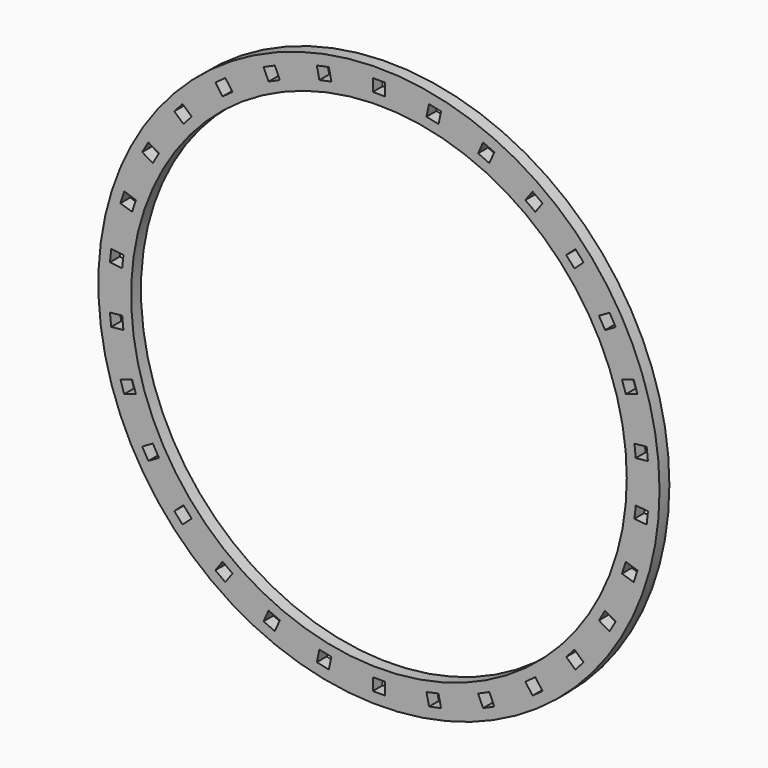
from build123d import *

# Parameters (mm, degrees)
F0_R     = 68.5
F0_R_2   = 60.5
F1_DEPTH = 3
F2_W     = 3
F2_H     = 3
F3_DEPTH = 3


with BuildPart() as f1:
    # F0 (on Front) → F1 (new body)
    with BuildSketch(Plane.XZ):
        Circle(F0_R)
        Circle(F0_R_2, mode=Mode.SUBTRACT)
    extrude(amount=F1_DEPTH)

    # F2 (on Front) → F3 (cut)
    with BuildSketch(Plane.XZ):
        with Locations((0, 64.375)):
            Rectangle(F2_W, F2_H)
        Polygon((-12.228961, 64.747341), (-15.163404, 64.123606), (-14.539669, 61.189163), (-11.605226, 61.812898), align=None)
        Polygon((-25.423458, 60.789912), (-28.164095, 59.569702), (-26.943885, 56.829066), (-24.203248, 58.049276), align=None)
        Polygon((-35.743472, 51.748621), (-37.506828, 54.175672), (-39.933879, 52.412317), (-38.170523, 49.985266), align=None)
        Polygon((-45.721535, 43.186304), (-47.950969, 45.193696), (-49.958361, 42.964261), (-47.728927, 40.95687), align=None)
        Polygon((-53.701347, 32.736538), (-56.299423, 34.236538), (-57.799423, 31.638462), (-55.201347, 30.138462), align=None)
        Polygon((-59.334153, 20.856028), (-62.187323, 21.783079), (-63.114374, 18.92991), (-60.261204, 18.002859), align=None)
        Polygon((-62.373771, 8.06401), (-65.357337, 8.377595), (-65.670923, 5.39403), (-62.687357, 5.080444), align=None)
        Polygon((-62.687357, -5.080444), (-65.670923, -5.39403), (-65.357337, -8.377595), (-62.373771, -8.06401), align=None)
        Polygon((-60.261204, -18.002859), (-63.114374, -18.92991), (-62.187323, -21.783079), (-59.334153, -20.856028), align=None)
        Polygon((-55.201347, -30.138462), (-57.799423, -31.638462), (-56.299423, -34.236538), (-53.701347, -32.736538), align=None)
        Polygon((-47.728927, -40.95687), (-49.958361, -42.964261), (-47.950969, -45.193696), (-45.721535, -43.186304), align=None)
        Polygon((-38.170523, -49.985266), (-39.933879, -52.412317), (-37.506828, -54.175672), (-35.743472, -51.748621), align=None)
        Polygon((-26.943885, -56.829066), (-28.164095, -59.569702), (-25.423458, -60.789912), (-24.203248, -58.049276), align=None)
        Polygon((-14.539669, -61.189163), (-15.163404, -64.123606), (-12.228961, -64.747341), (-11.605226, -61.812898), align=None)
        with Locations((0, -64.375)):
            Rectangle(F2_W, F2_H)
        Polygon((11.605226, -61.812898), (12.228961, -64.747341), (15.163404, -64.123606), (14.539669, -61.189163), align=None)
        Polygon((24.203248, -58.049276), (25.423458, -60.789912), (28.164095, -59.569702), (26.943885, -56.829066), align=None)
        Polygon((35.743472, -51.748621), (37.506828, -54.175672), (39.933879, -52.412317), (38.170523, -49.985266), align=None)
        Polygon((45.721535, -43.186304), (47.950969, -45.193696), (49.958361, -42.964261), (47.728927, -40.95687), align=None)
        Polygon((53.701347, -32.736538), (56.299423, -34.236538), (57.799423, -31.638462), (55.201347, -30.138462), align=None)
        Polygon((59.334153, -20.856028), (62.187323, -21.783079), (63.114374, -18.92991), (60.261204, -18.002859), align=None)
        Polygon((62.373771, -8.06401), (65.357337, -8.377595), (65.670923, -5.39403), (62.687357, -5.080444), align=None)
        Polygon((62.687357, 5.080444), (65.670923, 5.39403), (65.357337, 8.377595), (62.373771, 8.06401), align=None)
        Polygon((60.261204, 18.002859), (63.114374, 18.92991), (62.187323, 21.783079), (59.334153, 20.856028), align=None)
        Polygon((55.201347, 30.138462), (57.799423, 31.638462), (56.299423, 34.236538), (53.701347, 32.736538), align=None)
        Polygon((47.728927, 40.95687), (49.958361, 42.964261), (47.950969, 45.193696), (45.721535, 43.186304), align=None)
        Polygon((38.170523, 49.985266), (39.933879, 52.412317), (37.506828, 54.175672), (35.743472, 51.748621), align=None)
        Polygon((26.943885, 56.829066), (28.164095, 59.569702), (25.423458, 60.789912), (24.203248, 58.049276), align=None)
        Polygon((14.539669, 61.189163), (15.163404, 64.123606), (12.228961, 64.747341), (11.605226, 61.812898), align=None)
    extrude(amount=F3_DEPTH, mode=Mode.SUBTRACT)


solid = f1.part
